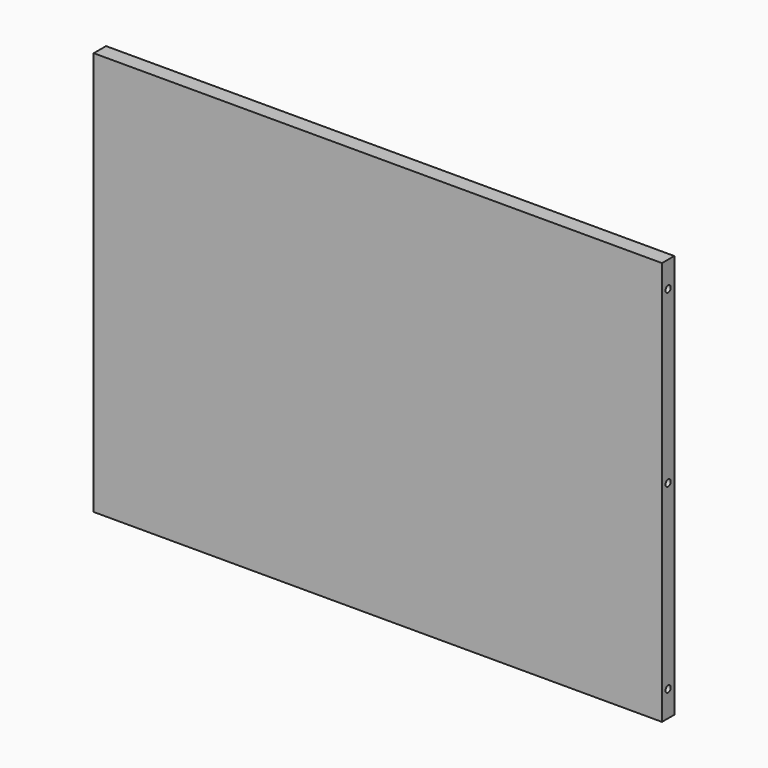
from build123d import *

# Parameters (mm, degrees)
F0_W     = 702
F0_H     = 499
F1_DEPTH = 9.5
F2_R     = 4
F3_DEPTH = 20


with BuildPart() as f1:
    # F0 (on Front) → F1 (new body, symmetric)
    with BuildSketch(Plane.XZ):
        Rectangle(F0_W, F0_H)
    extrude(amount=F1_DEPTH, both=True)

    # F2 (on face) → F3 (cut)
    with BuildSketch(Plane.YZ.offset(351)):
        with Locations((0, 217.5)):
            Circle(F2_R)
        with Locations((0, 6.5)):
            Circle(F2_R)
        with Locations((0, -217.5)):
            Circle(F2_R)
    extrude(amount=-F3_DEPTH, mode=Mode.SUBTRACT)


solid = f1.part
